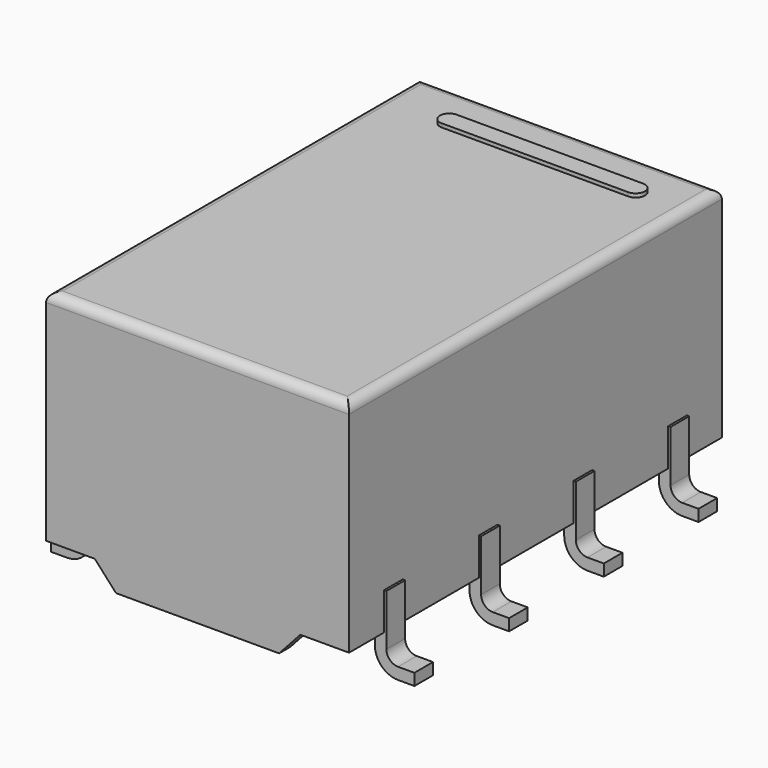
from build123d import *

# Parameters (mm, degrees)
PAD004_DEPTH = 0.25
PAD003_DEPTH = 0.25
PAD005_DEPTH = 0.25
PAD008_DEPTH = 0.3
SKETCH008_W  = 4.5
SKETCH008_H  = 0.35
PAD006_DEPTH = 4
PAD001_DEPTH = 0.18
PAD002_DEPTH = 0.25
PAD007_DEPTH = 0.3
SKETCH_W     = 10
SKETCH_H     = 6.5
PAD_DEPTH    = 4.7
POCKET_DEPTH = 0.5
FILLET_R     = 0.2


with BuildPart() as pad004:
    # Sketch006 → Pad004 (new body, symmetric)
    with BuildSketch(Plane.XZ.offset(1.27)):
        with BuildLine():
            Line((-3.9, 0), (-3.549998, 0))
            ThreePointArc((-3.549998, 0), (-3.196446, 0.146447), (-3.05, 0.5))
            Line((-3.05, 1.6), (-3.05, 0.5))
            Line((-3.3, 1.6), (-3.05, 1.6))
            Line((-3.3, 0.499998), (-3.3, 1.6))
            ThreePointArc((-3.549998, 0.25), (-3.373223, 0.323223), (-3.3, 0.499998))
            Line((-3.549998, 0.25), (-3.9, 0.25))
            Line((-3.9, 0.25), (-3.9, 0))
        make_face()
        with BuildLine():
            Line((3.3, 1.6), (3.05, 1.6))
            Line((3.05, 1.6), (3.05, 0.500004))
            ThreePointArc((3.05, 0.500004), (3.196444, 0.146448), (3.549998, 0))
            Line((3.9, 0), (3.549998, 0))
            Line((3.9, 0.25), (3.9, 0))
            Line((3.549998, 0.25), (3.9, 0.25))
            ThreePointArc((3.3, 0.499998), (3.373223, 0.323223), (3.549998, 0.25))
            Line((3.3, 0.499998), (3.3, 1.6))
        make_face()
    extrude(amount=PAD004_DEPTH, both=True)


with BuildPart() as pad003:
    # Sketch005 → Pad003 (new body, symmetric)
    with BuildSketch(Plane.XZ.offset(-3.81)):
        with BuildLine():
            Line((-3.9, 0), (-3.549998, 0))
            ThreePointArc((-3.549998, 0), (-3.196446, 0.146447), (-3.05, 0.5))
            Line((-3.05, 1.6), (-3.05, 0.5))
            Line((-3.3, 1.6), (-3.05, 1.6))
            Line((-3.3, 0.499998), (-3.3, 1.6))
            ThreePointArc((-3.549998, 0.25), (-3.373223, 0.323223), (-3.3, 0.499998))
            Line((-3.549998, 0.25), (-3.9, 0.25))
            Line((-3.9, 0.25), (-3.9, 0))
        make_face()
        with BuildLine():
            Line((3.3, 1.6), (3.05, 1.6))
            Line((3.05, 1.6), (3.05, 0.500004))
            ThreePointArc((3.05, 0.500004), (3.196444, 0.146448), (3.549998, 0))
            Line((3.9, 0), (3.549998, 0))
            Line((3.9, 0.25), (3.9, 0))
            Line((3.549998, 0.25), (3.9, 0.25))
            ThreePointArc((3.3, 0.499998), (3.373223, 0.323223), (3.549998, 0.25))
            Line((3.3, 0.499998), (3.3, 1.6))
        make_face()
    extrude(amount=PAD003_DEPTH, both=True)


with BuildPart() as pad005:
    # Sketch007 → Pad005 (new body, symmetric)
    with BuildSketch(Plane.XZ.offset(3.81)):
        with BuildLine():
            Line((-3.9, 0), (-3.549998, 0))
            ThreePointArc((-3.549998, 0), (-3.196446, 0.146447), (-3.05, 0.5))
            Line((-3.05, 1.6), (-3.05, 0.5))
            Line((-3.3, 1.6), (-3.05, 1.6))
            Line((-3.3, 0.499998), (-3.3, 1.6))
            ThreePointArc((-3.549998, 0.25), (-3.373223, 0.323223), (-3.3, 0.499998))
            Line((-3.549998, 0.25), (-3.9, 0.25))
            Line((-3.9, 0.25), (-3.9, 0))
        make_face()
        with BuildLine():
            Line((3.3, 1.6), (3.05, 1.6))
            Line((3.05, 1.6), (3.05, 0.500004))
            ThreePointArc((3.05, 0.500004), (3.196444, 0.146448), (3.549998, 0))
            Line((3.9, 0), (3.549998, 0))
            Line((3.9, 0.25), (3.9, 0))
            Line((3.549998, 0.25), (3.9, 0.25))
            ThreePointArc((3.3, 0.499998), (3.373223, 0.323223), (3.549998, 0.25))
            Line((3.3, 0.499998), (3.3, 1.6))
        make_face()
    extrude(amount=PAD005_DEPTH, both=True)


with BuildPart() as pad008:
    # Sketch010 → Pad008 (new body)
    with BuildSketch(Plane.XZ.offset(-5)):
        Polygon((-1.75, 0.3), (1.75, 0.3), (2.25, 0.85), (-2.25, 0.85), align=None)
    extrude(amount=PAD008_DEPTH)


with BuildPart() as pad006:
    # Sketch008 → Pad006 (new body, symmetric)
    with BuildSketch(Plane.XZ):
        with Locations((0, 0.675)):
            Rectangle(SKETCH008_W, SKETCH008_H)
    extrude(amount=PAD006_DEPTH, both=True)


with BuildPart() as pad001:
    # Sketch001 → Pad001 (new body)
    with BuildSketch(Plane(origin=(0, 0, 5.4), x_dir=(0, -1, 0), z_dir=(0, 0, 1))):
        with BuildLine():
            Line((-3.8, -1.8), (-3.8, 2.2))
            ThreePointArc((-3.8, 2.2), (-4, 2.4), (-4.2, 2.2))
            Line((-4.2, 2.2), (-4.2, -1.8))
            ThreePointArc((-4.2, -1.8), (-4, -2), (-3.8, -1.8))
        make_face()
    extrude(amount=PAD001_DEPTH)


with BuildPart() as pad002:
    # Sketch004 → Pad002 (new body, symmetric)
    with BuildSketch(Plane.XZ.offset(-1.27)):
        with BuildLine():
            Line((-3.9, 0), (-3.549998, 0))
            ThreePointArc((-3.549998, 0), (-3.196446, 0.146447), (-3.05, 0.5))
            Line((-3.05, 1.6), (-3.05, 0.5))
            Line((-3.3, 1.6), (-3.05, 1.6))
            Line((-3.3, 0.499998), (-3.3, 1.6))
            ThreePointArc((-3.549998, 0.25), (-3.373223, 0.323223), (-3.3, 0.499998))
            Line((-3.549998, 0.25), (-3.9, 0.25))
            Line((-3.9, 0.25), (-3.9, 0))
        make_face()
        with BuildLine():
            Line((3.3, 1.6), (3.05, 1.6))
            Line((3.05, 1.6), (3.05, 0.500004))
            ThreePointArc((3.05, 0.500004), (3.196444, 0.146448), (3.549998, 0))
            Line((3.9, 0), (3.549998, 0))
            Line((3.9, 0.25), (3.9, 0))
            Line((3.549998, 0.25), (3.9, 0.25))
            ThreePointArc((3.3, 0.499998), (3.373223, 0.323223), (3.549998, 0.25))
            Line((3.3, 0.499998), (3.3, 1.6))
        make_face()
    extrude(amount=PAD002_DEPTH, both=True)


with BuildPart() as pad007:
    # Sketch009 → Pad007 (new body)
    with BuildSketch(Plane.XZ.offset(5)):
        Polygon((-1.75, 0.3), (1.75, 0.3), (2.25, 0.85), (-2.25, 0.85), align=None)
    extrude(amount=-PAD007_DEPTH)


with BuildPart() as obj1:
    # Sketch → Pad (new body)
    with BuildSketch(Plane(origin=(0, 0, 0.8), x_dir=(0, -1, 0), z_dir=(0, 0, 1))):
        Rectangle(SKETCH_W, SKETCH_H)
    extrude(amount=PAD_DEPTH)

    # Sketch003 → Pocket (cut)
    with BuildSketch(Plane(origin=(0, 0, 5.5), x_dir=(0, -1, 0), z_dir=(0, 0, 1))):
        with BuildLine():
            ThreePointArc((-0.318267, 7.6), (0.223846, 7.813173), (0.45, 8.35))
            Line((0.45, 8.35), (-2.05, 8.35))
            Line((-2.05, 8.35), (-2.05, 7.6))
            Line((-2.05, 7.6), (-0.318267, 7.6))
        make_face()
        with BuildLine():
            Line((9.6, -0.75), (12.1, -0.75))
            Line((12.1, -0.75), (12.1, 0))
            Line((10.285847, 0), (12.1, 0))
            ThreePointArc((10.285847, 0), (9.797313, -0.241845), (9.6, -0.75))
        make_face()
    extrude(amount=-POCKET_DEPTH, mode=Mode.SUBTRACT)

    # Fillet
    fillet_edges = [obj1.edges().sort_by_distance(p)[0] for p in [
        (-3.25, 0, 5.5),
        (0, -5, 5.5),
        (3.25, 0, 5.5),
        (0, 5, 5.5),
    ]]
    fillet(fillet_edges, radius=FILLET_R)

    add(pad004.part)
    add(pad003.part)
    add(pad005.part)
    add(pad008.part)
    add(pad006.part)
    add(pad001.part)
    add(pad002.part)
    add(pad007.part)


solid = obj1.part
